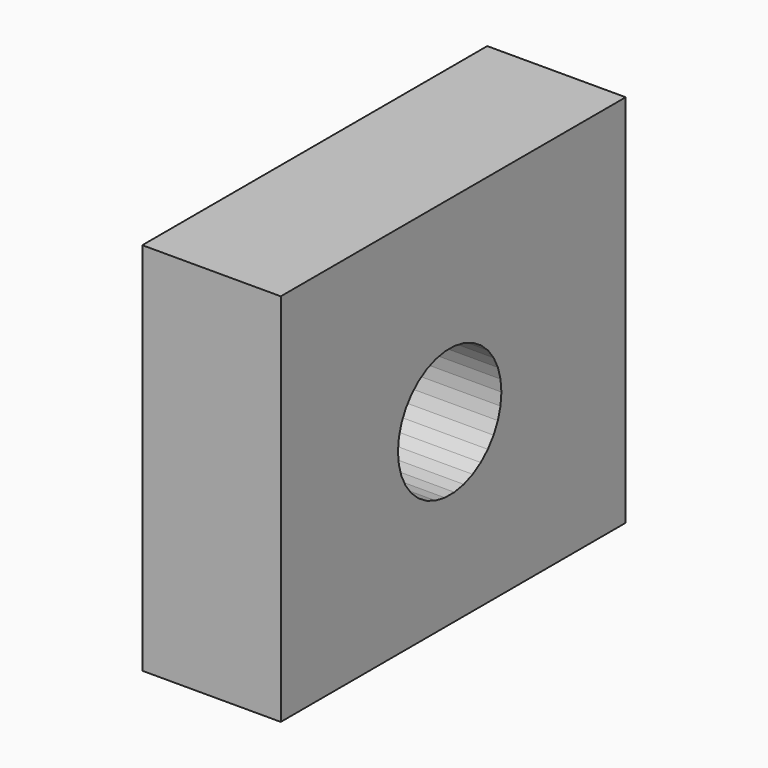
from build123d import *

# Parameters (mm, degrees)
F0_W     = 79.0956
F0_H     = 68.733474
F1_DEPTH = 25.4
F3_DEPTH = 25.4


with BuildPart() as f1:
    # F0 (on Right) → F1 (new body)
    with BuildSketch(Plane.YZ):
        with Locations((0.813765, 8.772184)):
            Rectangle(F0_W, F0_H)
    extrude(amount=F1_DEPTH)

    # F2 (on face) → F3 (cut)
    with BuildSketch(Plane.YZ.offset(25.4)):
        Polygon((8.753214, -0.872302), (10.074051, 0.872302), (11.051828, 2.829902), (11.653248, 4.933838), (11.85783, 7.11246), (11.658609, 9.291579), (11.062367, 11.396987), (10.08941, 13.356988), (8.77287, 15.104836), (7.157581, 16.581009), (5.298549, 17.73524), (3.259081, 18.528221), (1.108629, 18.932949), (-1.079577, 18.935641), (-3.231018, 18.536206), (-5.272431, 17.748245), (-7.134298, 16.598592), (-8.753214, 15.126397), (-10.074051, 13.381794), (-11.051828, 11.424194), (-11.653248, 9.320258), (-11.85783, 7.141636), (-11.658609, 4.962517), (-11.062367, 2.857109), (-10.08941, 0.897108), (-8.77287, -0.85074), (-7.157581, -2.326914), (-5.298549, -3.481144), (-3.259081, -4.274125), (-1.108629, -4.678853), (1.079577, -4.681545), (3.231018, -4.28211), (5.272431, -3.494149), (7.134298, -2.344496), align=None)
    extrude(amount=-F3_DEPTH, mode=Mode.SUBTRACT)


solid = f1.part
